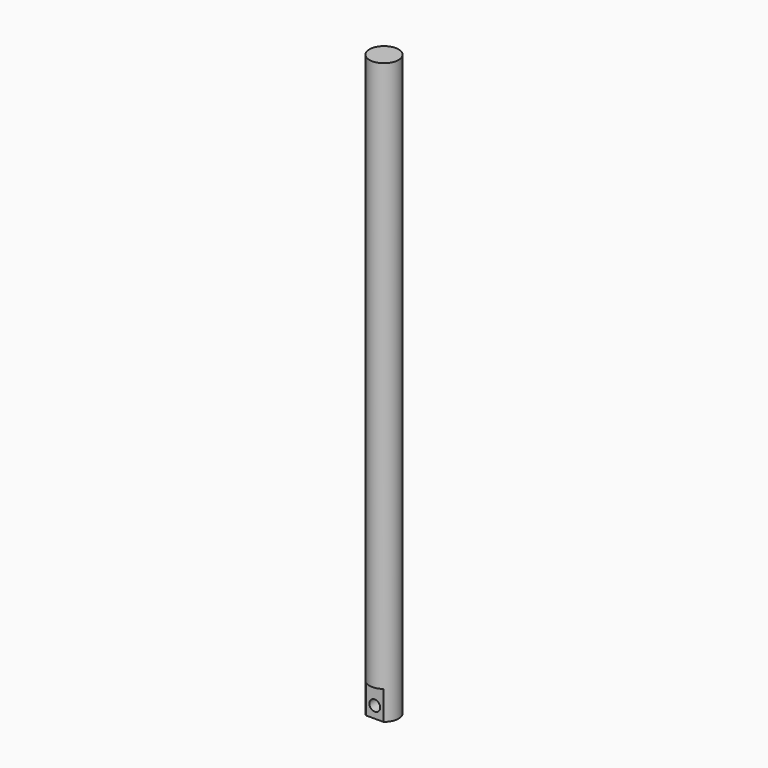
from build123d import *

# Parameters (mm, degrees)
F0_R     = 6.35
F1_DEPTH = 254
F2_R     = 2.38125
F3_DEPTH = 12.7
F4_W     = 38.273203
F4_H     = 14.002507
F5_DEPTH = 12.7


with BuildPart() as f1:
    # F0 (on Top) → F1 (new body)
    with BuildSketch(Plane.XY):
        Circle(F0_R)
    extrude(amount=F1_DEPTH)

    # F2 (on Front) → F3 (cut, symmetric)
    with BuildSketch(Plane.XZ):
        with Locations((0, 5.08)):
            Circle(F2_R)
    extrude(amount=F3_DEPTH, both=True, mode=Mode.SUBTRACT)

    # F4 (on face) → F5 (cut)
    with BuildSketch(Plane(origin=(0, 0, 0), x_dir=(1, 0, 0), z_dir=(0, 0, -1))):
        with Locations((-1.712646, 12.081253)):
            Rectangle(F4_W, F4_H)
    extrude(amount=-F5_DEPTH, mode=Mode.SUBTRACT)


solid = f1.part
